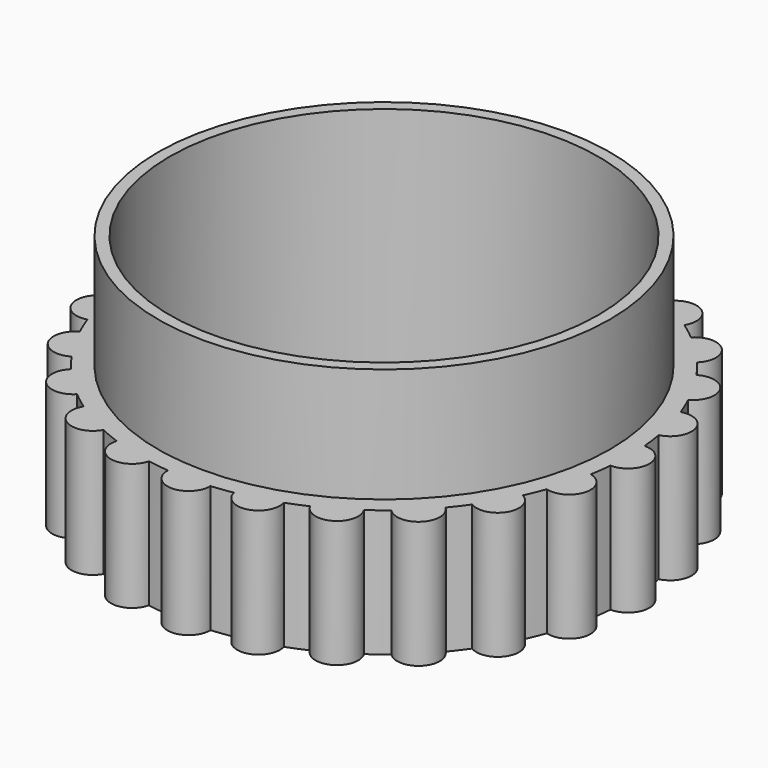
from build123d import *

# Parameters (mm, degrees)
F3_DEPTH = 12.13


with BuildPart() as f1:
    # F0 (on Front) → F1 (revolve)
    with BuildSketch(Plane.XZ):
        Polygon((20.5, 23.07), (20.5, 0), (23.37, 0), (23.37, 12.13), (21.62, 12.13), (21.62, 23.07), align=None)
    revolve(axis=Axis((0, 0, 6.4205313101), (0, 0, 1)))

    # F2 (on face) → F3 (join)
    with BuildSketch(Plane(origin=(0, 0, 0), x_dir=(1, 0, 0), z_dir=(0, 0, -1))):
        with BuildLine():
            ThreePointArc((-2.035, 23.2812301007), (0, 23.37), (2.035, 23.2812301007))
            ThreePointArc((2.035, 23.2812301007), (0, 25.37), (-2.035, 23.2812301007))
        make_face()
        with BuildLine():
            ThreePointArc((-7.9912848, 21.9612446652), (-6.048601084, 22.5736865604), (-4.059966687, 23.0146381788))
            ThreePointArc((-4.059966687, 23.0146381788), (-6.5662391743, 24.505538213), (-7.9912848, 21.9612446652))
        make_face()
        with BuildLine():
            ThreePointArc((-13.402976747, 19.1446366985), (-11.685, 20.2390136864), (-9.8782533536, 21.1796366985))
            ThreePointArc((-9.8782533536, 21.1796366985), (-12.685, 21.971064494), (-13.402976747, 19.1446366985))
        make_face()
        with BuildLine():
            ThreePointArc((-17.9012779783, 15.0233533788), (-16.5250854763, 16.5250854763), (-15.0233533788, 17.9012779783))
            ThreePointArc((-15.0233533788, 17.9012779783), (-17.9392990387, 17.9392990387), (-17.9012779783, 15.0233533788))
        make_face()
        with BuildLine():
            ThreePointArc((-21.1796366985, 9.8782533536), (-20.2390136864, 11.685), (-19.1446366985, 13.402976747))
            ThreePointArc((-19.1446366985, 13.402976747), (-21.971064494, 12.685), (-21.1796366985, 9.8782533536))
        make_face()
        with BuildLine():
            ThreePointArc((-23.0146381788, 4.059966687), (-22.5736865604, 6.048601084), (-21.9612446652, 7.9912848))
            ThreePointArc((-21.9612446652, 7.9912848), (-24.505538213, 6.5662391743), (-23.0146381788, 4.059966687))
        make_face()
        with BuildLine():
            ThreePointArc((-23.2812301007, -2.035), (-23.37, 0), (-23.2812301007, 2.035))
            ThreePointArc((-23.2812301007, 2.035), (-25.37, 0), (-23.2812301007, -2.035))
        make_face()
        with BuildLine():
            ThreePointArc((-23.0146381788, -4.059966687), (-24.505538213, -6.5662391743), (-21.9612446652, -7.9912848))
            ThreePointArc((-21.9612446652, -7.9912848), (-22.5736865604, -6.048601084), (-23.0146381788, -4.059966687))
        make_face()
        with BuildLine():
            ThreePointArc((-21.1796366985, -9.8782533536), (-21.971064494, -12.685), (-19.1446366985, -13.402976747))
            ThreePointArc((-19.1446366985, -13.402976747), (-20.2390136864, -11.685), (-21.1796366985, -9.8782533536))
        make_face()
        with BuildLine():
            ThreePointArc((-17.9012779783, -15.0233533788), (-17.9392990387, -17.9392990387), (-15.0233533788, -17.9012779783))
            ThreePointArc((-15.0233533788, -17.9012779783), (-16.5250854763, -16.5250854763), (-17.9012779783, -15.0233533788))
        make_face()
        with BuildLine():
            ThreePointArc((-13.402976747, -19.1446366985), (-12.685, -21.971064494), (-9.8782533536, -21.1796366985))
            ThreePointArc((-9.8782533536, -21.1796366985), (-11.685, -20.2390136864), (-13.402976747, -19.1446366985))
        make_face()
        with BuildLine():
            ThreePointArc((-7.9912848, -21.9612446652), (-6.5662391743, -24.505538213), (-4.059966687, -23.0146381788))
            ThreePointArc((-4.059966687, -23.0146381788), (-6.048601084, -22.5736865604), (-7.9912848, -21.9612446652))
        make_face()
        with BuildLine():
            ThreePointArc((-2.035, -23.2812301007), (0, -25.37), (2.035, -23.2812301007))
            ThreePointArc((2.035, -23.2812301007), (0, -23.37), (-2.035, -23.2812301007))
        make_face()
        with BuildLine():
            ThreePointArc((4.059966687, -23.0146381788), (6.5662391743, -24.505538213), (7.9912848, -21.9612446652))
            ThreePointArc((7.9912848, -21.9612446652), (6.048601084, -22.5736865604), (4.059966687, -23.0146381788))
        make_face()
        with BuildLine():
            ThreePointArc((9.8782533536, -21.1796366985), (12.685, -21.971064494), (13.402976747, -19.1446366985))
            ThreePointArc((13.402976747, -19.1446366985), (11.685, -20.2390136864), (9.8782533536, -21.1796366985))
        make_face()
        with BuildLine():
            ThreePointArc((15.0233533788, -17.9012779783), (17.9392990387, -17.9392990387), (17.9012779783, -15.0233533788))
            ThreePointArc((17.9012779783, -15.0233533788), (16.5250854763, -16.5250854763), (15.0233533788, -17.9012779783))
        make_face()
        with BuildLine():
            ThreePointArc((19.1446366985, -13.402976747), (21.971064494, -12.685), (21.1796366985, -9.8782533536))
            ThreePointArc((21.1796366985, -9.8782533536), (20.2390136864, -11.685), (19.1446366985, -13.402976747))
        make_face()
        with BuildLine():
            ThreePointArc((21.9612446652, -7.9912848), (24.505538213, -6.5662391743), (23.0146381788, -4.059966687))
            ThreePointArc((23.0146381788, -4.059966687), (22.5736865604, -6.048601084), (21.9612446652, -7.9912848))
        make_face()
        with BuildLine():
            ThreePointArc((23.2812301007, 2.035), (23.347796978, 1.0184676106), (23.37, 0))
            ThreePointArc((23.37, 0), (23.347796978, -1.0184676106), (23.2812301007, -2.035))
            ThreePointArc((23.2812301007, -2.035), (25.37, 0), (23.2812301007, 2.035))
        make_face()
        with BuildLine():
            ThreePointArc((21.9612446652, 7.9912848), (22.5736865604, 6.048601084), (23.0146381788, 4.059966687))
            ThreePointArc((23.0146381788, 4.059966687), (24.505538213, 6.5662391743), (21.9612446652, 7.9912848))
        make_face()
        with BuildLine():
            ThreePointArc((19.1446366985, 13.402976747), (20.2390136864, 11.685), (21.1796366985, 9.8782533536))
            ThreePointArc((21.1796366985, 9.8782533536), (21.971064494, 12.685), (19.1446366985, 13.402976747))
        make_face()
        with BuildLine():
            ThreePointArc((15.0233533788, 17.9012779783), (16.5250854763, 16.5250854763), (17.9012779783, 15.0233533788))
            ThreePointArc((17.9012779783, 15.0233533788), (17.9392990387, 17.9392990387), (15.0233533788, 17.9012779783))
        make_face()
        with BuildLine():
            ThreePointArc((9.8782533536, 21.1796366985), (11.685, 20.2390136864), (13.402976747, 19.1446366985))
            ThreePointArc((13.402976747, 19.1446366985), (12.685, 21.971064494), (9.8782533536, 21.1796366985))
        make_face()
        with BuildLine():
            ThreePointArc((4.059966687, 23.0146381788), (6.048601084, 22.5736865604), (7.9912848, 21.9612446652))
            ThreePointArc((7.9912848, 21.9612446652), (6.5662391743, 24.505538213), (4.059966687, 23.0146381788))
        make_face()
    extrude(amount=-F3_DEPTH)


solid = f1.part
